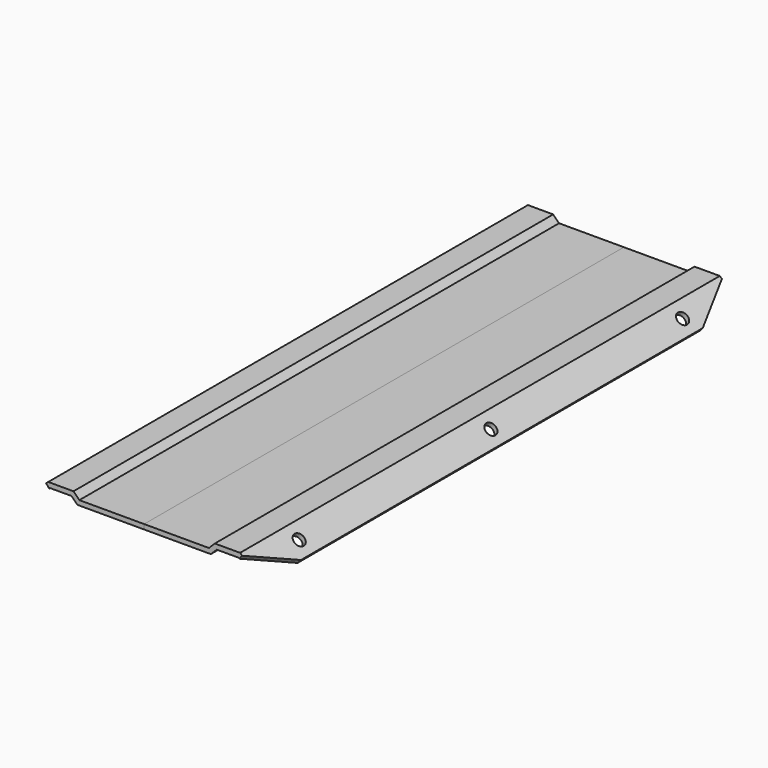
from build123d import *

# Parameters (mm, degrees)
F2_DEPTH = 250
F4_D     = 5
F6_DEPTH = 33.2750494181


with BuildPart() as f2:
    # F0 (on Front) → F2 (new body)
    with BuildSketch(Plane.XZ):
        Polygon((-29.4684734557, -5.5029067088), (-39.995180622, -5.5029067088), (-49.1391739397, -13.415253299), (-47.7946186635, -14.8966111875), (-39.25, -7.5029067088), (-30.25, -7.5029067088), (-27.7983543557, -9.954552353), (0, -9.954552353), (0, -7.954552353), (-27.0168278114, -7.954552353), align=None)
    extrude(amount=-F2_DEPTH)

    # F4 (through all)
    with Locations(Plane(origin=(-14.4015917944, 0, 16.6433633349), x_dir=(0.756198331, 0, 0.6543424823), z_dir=(-0.6543424823, 0, 0.756198331))):
        with Locations((-39.8911029679, 224.9067723751), (-39.8911029679, 125), (-39.8911029679, 25.0932276249)):
            Hole(F4_D / 2)

    # F5 (on face) → F6 (cut, through all)
    with BuildSketch(Plane(origin=(-14.4015917944, 0, 16.6433633349), x_dir=(0.756198331, 0, 0.6543424823), z_dir=(-0.6543424823, 0, 0.756198331))):
        Polygon((-45.9371314651, 229.6921412), (-35.0280794706, 250), (-45.9371314651, 250), align=None)
        Polygon((-35.0280794706, 0), (-45.9371314651, 20.3078588), (-45.9371314651, 0), align=None)
    extrude(amount=-F6_DEPTH, mode=Mode.SUBTRACT)


with BuildPart() as f8_1:
    # F8: instance of F2
    add(f2.part.mirror(Plane(origin=(0, 260, 0), x_dir=(0, 0, 1), z_dir=(-1, 0, 0))))


solid = Compound([f2.part, f8_1.part])
